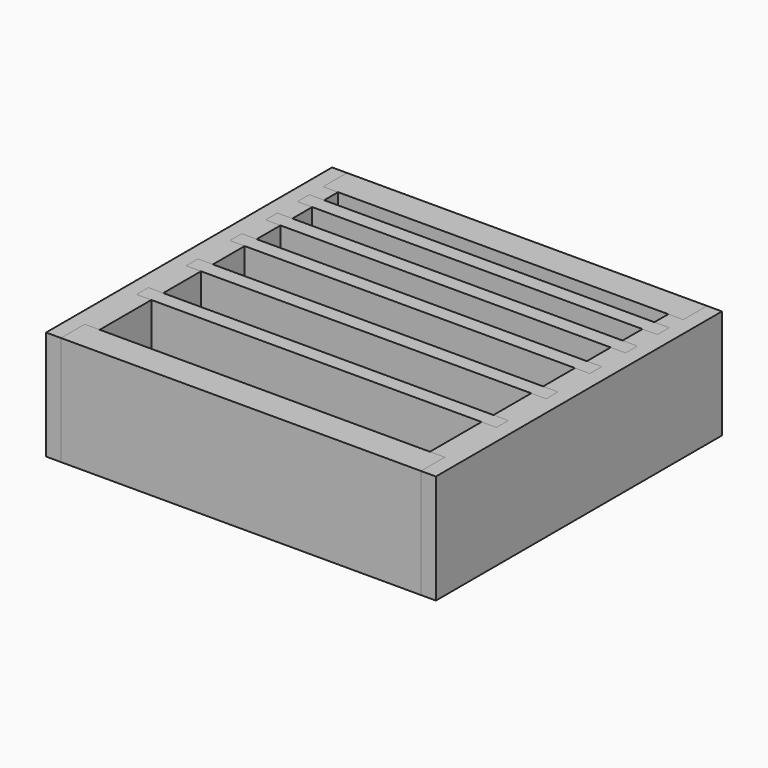
from build123d import *

# Parameters (mm, degrees)
F1_DEPTH = 139.7
F2_W     = 19.05
F2_H     = 19.05
F3_DEPTH = 139.7
F5_W     = 460.375
F5_H     = 38.1
F6_DEPTH = 139.7
F7_W     = 460.375
F7_H     = 19.05
F8_DEPTH = 88.9


with BuildPart() as f1:
    # F0 (on Top) → F1 (new body)
    with BuildSketch(Plane.XY):
        Polygon((-249.2375, 0), (-230.1875, 0), (-230.1875, 38.1), (-211.1375, 38.1), (-211.1375, 419.1), (-230.1875, 419.1), (-230.1875, 457.2), (-249.2375, 457.2), align=None)
    extrude(amount=-F1_DEPTH)

    # F2 (on face) → F3 (cut, through all)
    with BuildSketch(Plane.XY):
        with Locations((-220.6625, 130.175)):
            Rectangle(F2_W, F2_H)
        with Locations((-220.6625, 209.55)):
            Rectangle(F2_W, F2_H)
        with Locations((-220.6625, 279.4)):
            Rectangle(F2_W, F2_H)
        with Locations((-220.6625, 336.55)):
            Rectangle(F2_W, F2_H)
        with Locations((-220.6625, 387.35)):
            Rectangle(F2_W, F2_H)
    extrude(amount=-F3_DEPTH, mode=Mode.SUBTRACT)


with BuildPart() as f4_1:
    # F4: instance of F1
    add(f1.part.mirror(Plane.YZ))


with BuildPart() as f6:
    # F5 (on face) → F6 (new body)
    with BuildSketch(Plane.XY):
        with Locations((0, 19.05)):
            Rectangle(F5_W, F5_H)
        with Locations((0, 438.15)):
            Rectangle(F5_W, F5_H)
    extrude(amount=-F6_DEPTH)


with BuildPart() as f8:
    # F7 (on face) → F8 (new body)
    with BuildSketch(Plane.XY):
        with Locations((0, 130.175)):
            Rectangle(F7_W, F7_H)
        with Locations((0, 209.55)):
            Rectangle(F7_W, F7_H)
        with Locations((0, 279.4)):
            Rectangle(F7_W, F7_H)
        with Locations((0, 336.55)):
            Rectangle(F7_W, F7_H)
        with Locations((0, 387.35)):
            Rectangle(F7_W, F7_H)
    extrude(amount=-F8_DEPTH)


solid = Compound([f1.part, f4_1.part, f6.part, f8.part])
